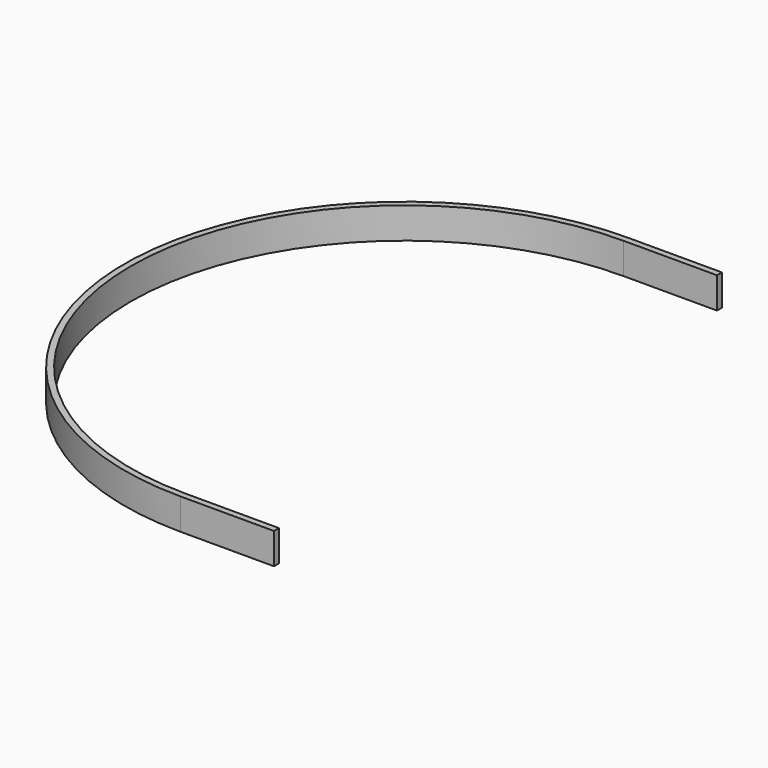
from build123d import *

# Parameters (mm, degrees)
F1_DEPTH  = 10
F1_FACE_W = 2
F1_FACE_H = 10
F3_DEPTH  = 30
F4_DEPTH  = 30


with BuildPart() as f1:
    # F0 (on Top) → F1 (new body)
    with BuildSketch(Plane.XY):
        with BuildLine():
            Line((0, 88), (0, 90))
            ThreePointArc((0, 90), (-90, 0), (0, -90))
            Line((0, -90), (0, -88))
            ThreePointArc((0, -88), (-88, 0), (0, 88))
        make_face()
    extrude(amount=F1_DEPTH)

    # F1_face (on face) → F3 (join)
    with BuildSketch(Plane(origin=(0, -89, 5), x_dir=(0, 1, 0), z_dir=(1, 0, 0))):
        Rectangle(F1_FACE_W, F1_FACE_H)
    extrude(amount=F3_DEPTH)

    # F1_face (on face) → F4 (join)
    with BuildSketch(Plane(origin=(0, -89, 5), x_dir=(0, 1, 0), z_dir=(1, 0, 0))):
        with Locations((178, 0)):
            Rectangle(F1_FACE_W, F1_FACE_H)
    extrude(amount=F4_DEPTH)


solid = f1.part
